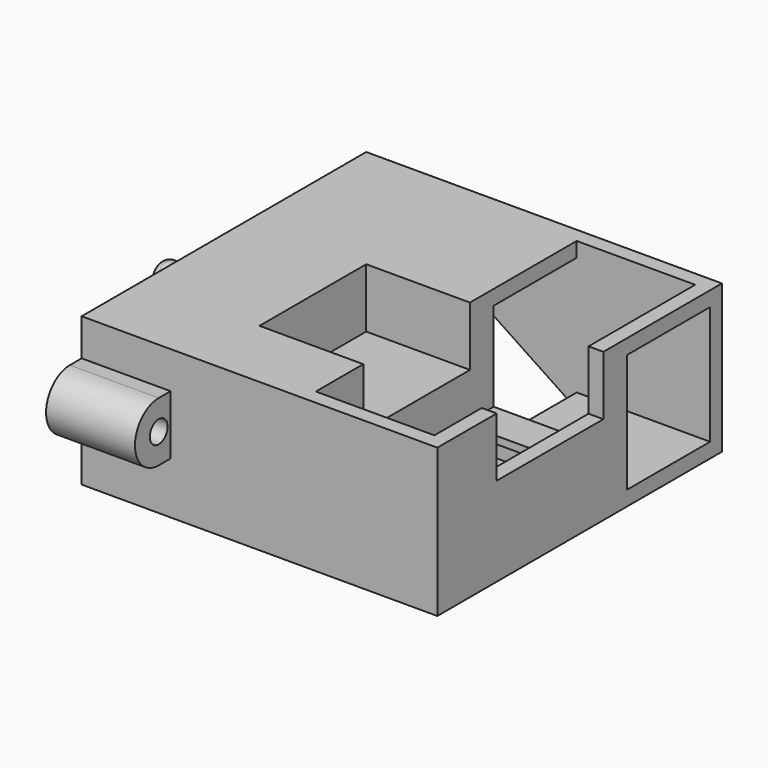
from build123d import *

# Parameters (mm, degrees)
F0_W      = 38.1
F0_H      = 38.1
F1_DEPTH  = 15.875
F2_W      = 12.7
F2_H      = 34.925
F3_DEPTH  = 11.1125
F4_W      = 11.1125
F4_H      = 12.7
F5_DEPTH  = 38.101
F6_W      = 23.8125
F6_H      = 11.1125
F7_DEPTH  = 1.5875
F8_W      = 7.9375
F8_H      = 3.175
F8_H_2    = 3.96875
F9_DEPTH  = 4.7625
F11_DEPTH = 1.5875
F12_R     = 1.190625
F13_DEPTH = 9.525
F14_R     = 1.190625
F15_DEPTH = 9.525
F16_W     = 12.7
F16_H     = 20.6375
F17_DEPTH = 3.96875
F18_W     = 14.2875
F18_H     = 6.35
F19_DEPTH = 25.4
F20_R     = 1.5875
F21_DEPTH = 2.38125
F22_R     = 0.79375


with BuildPart() as f1:
    # F0 (on Top) → F1 (new body)
    with BuildSketch(Plane.XY):
        Rectangle(F0_W, F0_H)
    extrude(amount=F1_DEPTH)

    # F2 (on face) → F3 (cut)
    with BuildSketch(Plane.XY.offset(15.875)):
        with Locations((11.1125, 0)):
            Rectangle(F2_W, F2_H)
    extrude(amount=-F3_DEPTH, mode=Mode.SUBTRACT)

    # F4 (on face) → F5 (cut, through all)
    with BuildSketch(Plane.YZ.offset(19.05)):
        with Locations((11.90625, 7.9375)):
            Rectangle(F4_W, F4_H)
    extrude(amount=-F5_DEPTH, mode=Mode.SUBTRACT)

    # F6 (on face) → F7 (cut, through all)
    with BuildSketch(Plane(origin=(0, 0, 0), x_dir=(1, 0, 0), z_dir=(0, 0, -1))):
        with Locations((-7.14375, -11.90625)):
            Rectangle(F6_W, F6_H)
    extrude(amount=-F7_DEPTH, mode=Mode.SUBTRACT)

    # F8 (on face) → F9 (cut, through all)
    with BuildSketch(Plane.XY.offset(4.7625)):
        with Locations((11.1125, 0.79375)):
            Rectangle(F8_W, F8_H)
        with Locations((11.1125, -13.096875)):
            Rectangle(F8_W, F8_H_2)
    extrude(amount=-F9_DEPTH, mode=Mode.SUBTRACT)

    # F10 (on face) → F11 (cut)
    with BuildSketch(Plane(origin=(0, 19.05, 0), x_dir=(-1, 0, 0), z_dir=(0, 1, 0))):
        Polygon((19.05, 0), (19.05, 15.875), (-4.7625, 0), align=None)
    extrude(amount=-F11_DEPTH, mode=Mode.SUBTRACT)

    # F12 (on face) → F13 (join)
    with BuildSketch(Plane(origin=(-19.05, 0, 0), x_dir=(0, -1, 0), z_dir=(-1, 0, 0))):
        with BuildLine():
            Line((-6.35, 5.55625), (-6.35, 11.90625))
            Line((-6.35, 11.90625), (-7.14375, 11.90625))
            ThreePointArc((-7.14375, 11.90625), (-10.31875, 8.73125), (-7.14375, 5.55625))
            Line((-7.14375, 5.55625), (-6.35, 5.55625))
        make_face()
        with Locations((-7.9375, 8.73125)):
            Circle(F12_R, mode=Mode.SUBTRACT)
    extrude(amount=-F13_DEPTH)

    # F14 (on face) → F15 (join)
    with BuildSketch(Plane(origin=(-19.05, 0, 0), x_dir=(0, -1, 0), z_dir=(-1, 0, 0))):
        with BuildLine():
            Line((20.6375, 11.90625), (19.05, 11.90625))
            Line((19.05, 11.90625), (19.05, 5.55625))
            Line((19.05, 5.55625), (20.6375, 5.55625))
            ThreePointArc((20.6375, 5.55625), (23.8125, 8.73125), (20.6375, 11.90625))
        make_face()
        with Locations((20.6375, 8.73125)):
            Circle(F14_R, mode=Mode.SUBTRACT)
    extrude(amount=-F15_DEPTH)

    # F16 (on face) → F17 (cut)
    with BuildSketch(Plane(origin=(0, 0, 0), x_dir=(1, 0, 0), z_dir=(0, 0, -1))):
        with Locations((11.1125, 7.14375)):
            Rectangle(F16_W, F16_H)
    extrude(amount=-F17_DEPTH, mode=Mode.SUBTRACT)

    # F18 (on face) → F19 (cut)
    with BuildSketch(Plane.YZ.offset(19.05)):
        with Locations((-3.96875, 12.7)):
            Rectangle(F18_W, F18_H)
    extrude(amount=-F19_DEPTH, mode=Mode.SUBTRACT)

    # F20 (on face) → F21 (join)
    with BuildSketch(Plane(origin=(-19.05, 0, 0), x_dir=(0, -1, 0), z_dir=(-1, 0, 0))):
        with Locations((5.55625, 13.49375)):
            Circle(F20_R)
        with Locations((5.55625, 3.96875)):
            Circle(F20_R)
    extrude(amount=F21_DEPTH)

    # F22
    f22_edges = [f1.edges().sort_by_distance(p)[0] for p in [
        (-21.43125, -3.96875, 13.49375),
        (-21.43125, -3.96875, 3.96875),
    ]]
    fillet(f22_edges, radius=F22_R)


solid = f1.part
